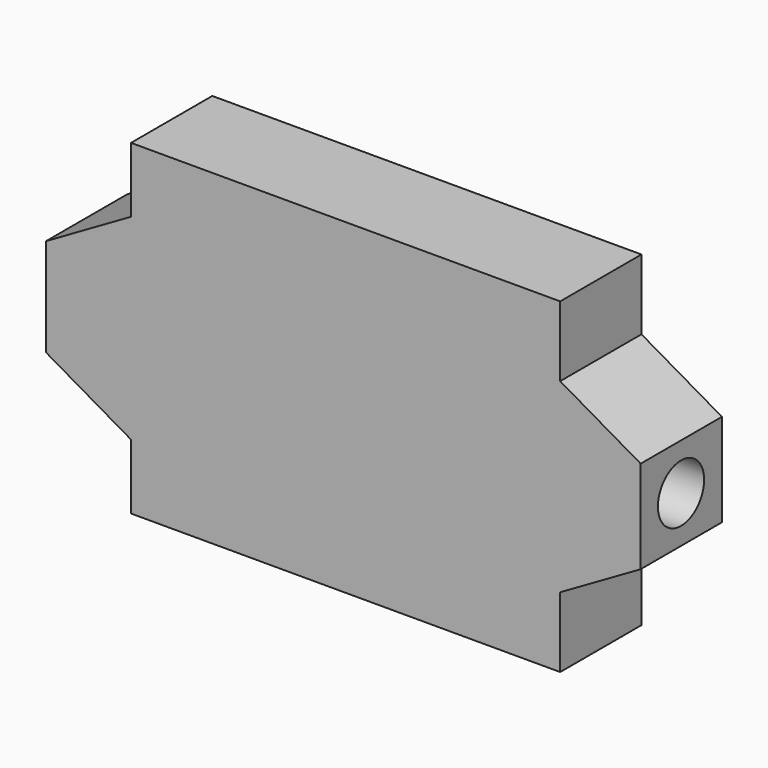
from build123d import *

# Parameters (mm, degrees)
F1_DEPTH = 9
F2_R     = 2.5563686672
F4_DEPTH = 10
F3_R     = 2.6331489766
F5_DEPTH = 10


with BuildPart() as f1:
    # F0 (on Front) → F1 (new body)
    with BuildSketch(Plane.XZ):
        Polygon((-15.2494329959, 47.5306976587), (-53.273987025, 47.5306976587), (-53.273987025, 41.7633611672), (-45.7482971251, 37.4184020777), (-45.7482971251, 28.7284838985), (-53.273987025, 24.383524809), (-53.273987025, 18.6161883175), (-15.2494329959, 18.6161883175), (-15.2494329959, 24.8408854145), (-22.3790369928, 28.9571642013), (-22.3790369928, 37.1897217749), (-15.2494329959, 41.3060005617), align=None)
        Polygon((-15.2494329959, 47.5306976587), (-53.273987025, 47.5306976587), (-53.273987025, 41.7633611672), (-45.7482971251, 37.4184020777), (-45.7482971251, 28.7284838985), (-53.273987025, 24.383524809), (-53.273987025, 18.6161883175), (-15.2494329959, 18.6161883175), (-15.2494329959, 24.8408854145), (-22.3790369928, 28.9571642013), (-22.3790369928, 37.1897217749), (-15.2494329959, 41.3060005617), align=None)
        Polygon((-45.7482971251, 37.4184020777), (-53.273987025, 41.7633611672), (-53.273987025, 24.383524809), (-45.7482971251, 28.7284838985), align=None)
        Polygon((-53.273987025, 24.383524809), (-53.273987025, 41.7633611672), (-60.7996769249, 37.4184020777), (-60.7996769249, 28.7284838985), align=None)
        Polygon((-8.119828999, 37.1897217749), (-15.2494329959, 41.3060005617), (-15.2494329959, 24.8408854145), (-8.119828999, 28.9571642013), align=None)
        Polygon((-15.2494329959, 24.8408854145), (-15.2494329959, 41.3060005617), (-22.3790369928, 37.1897217749), (-22.3790369928, 28.9571642013), align=None)
    extrude(amount=F1_DEPTH)

    # F2 (on face) → F4 (cut)
    with BuildSketch(Plane.YZ.offset(-8.119828999)):
        with Locations((-4.5300060883, 33.0734429881)):
            Circle(F2_R)
    extrude(amount=-F4_DEPTH, mode=Mode.SUBTRACT)

    # F3 (on face) → F5 (cut)
    with BuildSketch(Plane(origin=(-60.7996769249, 0, 0), x_dir=(0, -1, 0), z_dir=(-1, 0, 0))):
        with Locations((3.9233877324, 33.2661084831)):
            Circle(F3_R)
    extrude(amount=-F5_DEPTH, mode=Mode.SUBTRACT)


solid = f1.part
